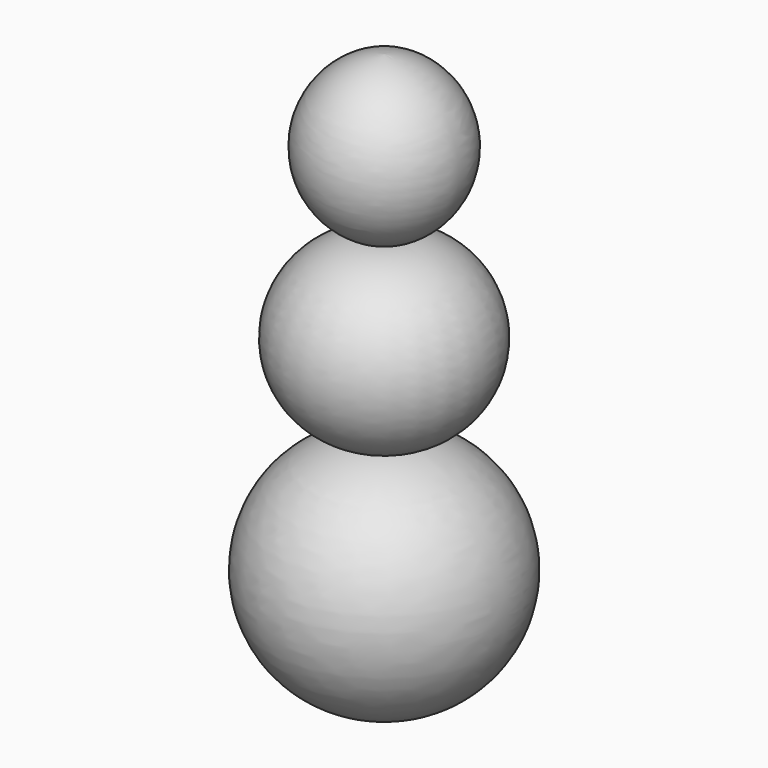
from build123d import *

# Parameters (mm, degrees)
F2_SCALE = 0.5


with BuildPart() as f1:
    # F0 (on Front) → F1 (revolve)
    with BuildSketch(Plane.XZ):
        with BuildLine():
            ThreePointArc((0.552154974, 19.6253863349), (15.0684296379, 36.2025875916), (0, 52.279535681))
            Line((0, 52.279535681), (0, 19.5707920939))
            ThreePointArc((0, 19.5707920939), (0.2758632043, 19.6002564252), (0.552154974, 19.6253863349))
        make_face()
        with BuildLine():
            ThreePointArc((0.552154974, 19.6253863349), (0.2763082565, 19.5957552589), (0, 19.5707920939))
            Line((0, 19.5707920939), (0, -15.5415115878))
            ThreePointArc((0, -15.5415115878), (1.5050455015, -15.5371840983), (3.007304708, -15.6288245111))
            ThreePointArc((3.007304708, -15.6288245111), (19.6433090045, 3.242324122), (0.552154974, 19.6253863349))
        make_face()
        with BuildLine():
            ThreePointArc((0.552154974, 19.6253863349), (0.2758632043, 19.6002564252), (0, 19.5707920939))
            ThreePointArc((0, 19.5707920939), (0.2763082565, 19.5957552589), (0.552154974, 19.6253863349))
        make_face()
        with BuildLine():
            ThreePointArc((3.007304708, -15.6288245111), (1.5017908341, -15.6492840756), (0, -15.5415115878))
            Line((0, -15.5415115878), (0, -62.7001449466))
            ThreePointArc((0, -62.7001449466), (24.3659049149, -40.6251142401), (3.007304708, -15.6288245111))
        make_face()
        with BuildLine():
            ThreePointArc((3.007304708, -15.6288245111), (1.5050455015, -15.5371840983), (0, -15.5415115878))
            ThreePointArc((0, -15.5415115878), (1.5017908341, -15.6492840756), (3.007304708, -15.6288245111))
        make_face()
    revolve(axis=Axis((0, 0, -5.2103046328), (0, 0, -1)))


with BuildPart() as f1_1:
    # F2: moved
    add(f1.part.scale(F2_SCALE))


solid = f1_1.part
